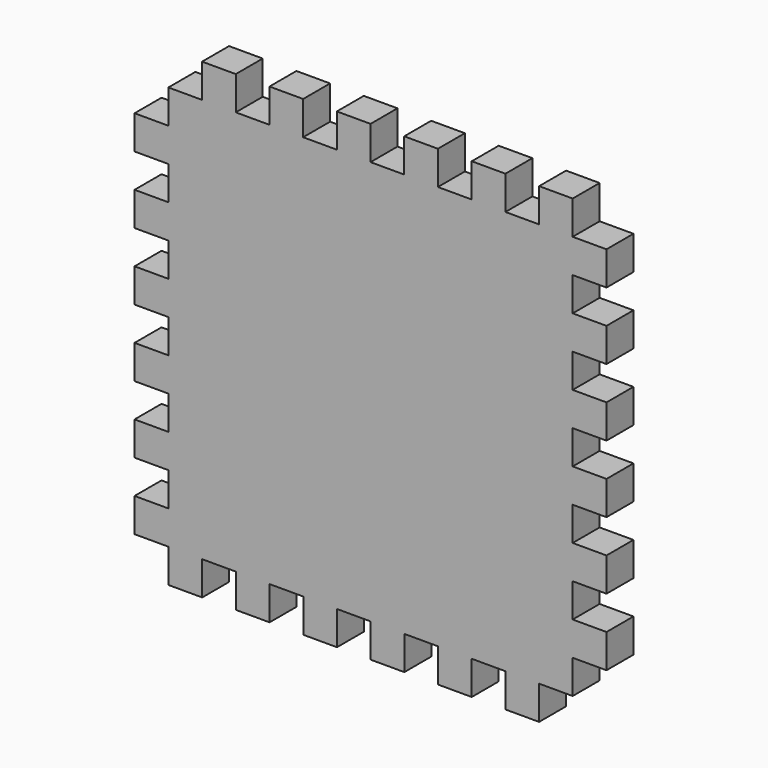
from build123d import *

# Parameters (mm, degrees)
F1_DEPTH = 6.35


with BuildPart() as f1:
    # F0 (on Front) → F1 (new body)
    with BuildSketch(Plane.XZ):
        Polygon((-25.4, 47.625), (-31.75, 47.625), (-31.75, 41.275), (-38.1, 41.275), (-38.1, 34.925), (-44.47566, 34.925), (-44.47566, 28.575), (-38.109287, 28.575), (-38.109287, 22.225), (-44.47566, 22.225), (-44.47566, 15.875), (-38.109287, 15.875), (-38.109287, 9.525), (-44.47566, 9.525), (-44.47566, 3.175), (-38.109287, 3.175), (-38.1, -3.175), (-44.47566, -3.175), (-44.47566, -9.525), (-38.1, -9.525), (-38.1, -15.875), (-44.47566, -15.875), (-44.47566, -22.225), (-38.1, -22.225), (-38.07434, -28.575), (-44.47566, -28.575), (-44.47566, -34.925), (-38.07434, -34.925), (-38.07434, -41.275), (-31.72434, -41.275), (-31.72434, -34.925), (-25.37434, -34.925), (-25.37434, -41.275), (-25.32191, -41.275), (-19.02434, -41.275), (-19.02434, -34.925), (-12.67434, -34.925), (-12.67434, -41.275), (-12.450798, -41.275), (-6.32434, -41.275), (-6.32434, -34.925), (0.02566, -34.925), (0.02566, -41.275), (6.37566, -41.275), (6.37566, -34.925), (12.72566, -34.925), (12.72566, -41.275), (19.07566, -41.275), (19.07566, -34.925), (25.42566, -34.925), (25.42566, -41.275), (31.77566, -41.275), (31.77566, -34.925), (38.1, -34.925), (38.1, -28.575), (44.47566, -28.575), (44.47566, -22.225), (38.1, -22.225), (38.1, -15.875), (44.47566, -15.875), (44.47566, -9.525), (38.1, -9.525), (38.1, -3.175), (44.47566, -3.175), (44.47566, 3.175), (38.1, 3.175), (38.1, 9.525), (44.47566, 9.525), (44.47566, 15.875), (38.1, 15.875), (38.1, 22.225), (44.47566, 22.225), (44.47566, 28.575), (38.1, 28.575), (38.1, 34.925), (44.47566, 34.925), (44.47566, 41.275), (38.1, 41.275), (38.1, 47.625), (31.77566, 47.625), (31.77566, 41.275), (25.42566, 41.275), (25.42566, 47.625), (19.07566, 47.625), (19.07566, 41.275), (12.7, 41.275), (12.7, 47.625), (6.35, 47.625), (6.35, 41.275), (0, 41.275), (0, 47.625), (-6.35, 47.625), (-6.35, 41.275), (-12.7, 41.275), (-12.7, 47.625), (-19.05, 47.625), (-19.05, 41.275), (-25.4, 41.275), align=None)
    extrude(amount=F1_DEPTH)


solid = f1.part
